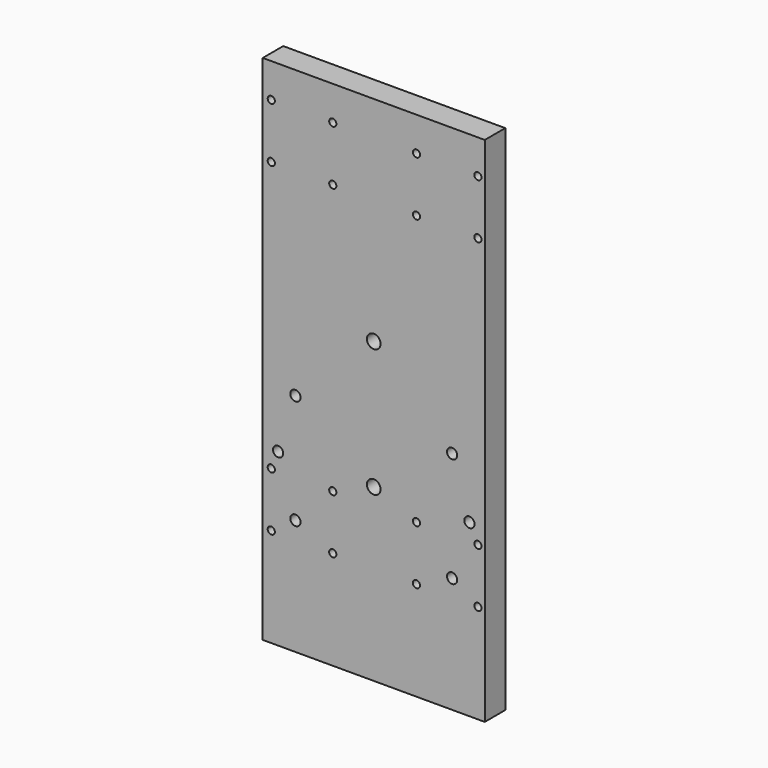
from build123d import *

# Parameters (mm, degrees)
SKETCH_W        = 130
SKETCH_H        = 300
PAD_DEPTH       = 15
SKETCH001_R     = 2.1
POCKET_DEPTH    = 15.001
SKETCH002_R     = 3
SKETCH002_R_2   = 4
POCKET001_DEPTH = 15.001


with BuildPart() as part:
    # Sketch → Pad (new body)
    with BuildSketch(Plane.XZ):
        with Locations((65, 150)):
            Rectangle(SKETCH_W, SKETCH_H)
    extrude(amount=PAD_DEPTH)

    # Sketch001 (on Face6 of Pad) → Pocket (cut, through all)
    with BuildSketch(Plane.XZ.offset(15)):
        with Locations((5, 280)):
            Circle(SKETCH001_R)
        with Locations((41, 280)):
            Circle(SKETCH001_R)
        with Locations((5, 248)):
            Circle(SKETCH001_R)
        with Locations((41, 248)):
            Circle(SKETCH001_R)
        with Locations((90, 280)):
            Circle(SKETCH001_R)
        with Locations((126, 280)):
            Circle(SKETCH001_R)
        with Locations((90, 248)):
            Circle(SKETCH001_R)
        with Locations((126, 248)):
            Circle(SKETCH001_R)
        with Locations((5, 90)):
            Circle(SKETCH001_R)
        with Locations((41, 90)):
            Circle(SKETCH001_R)
        with Locations((5, 58)):
            Circle(SKETCH001_R)
        with Locations((41, 58)):
            Circle(SKETCH001_R)
        with Locations((90, 90)):
            Circle(SKETCH001_R)
        with Locations((126, 90)):
            Circle(SKETCH001_R)
        with Locations((90, 58)):
            Circle(SKETCH001_R)
        with Locations((126, 58)):
            Circle(SKETCH001_R)
    extrude(amount=-POCKET_DEPTH, mode=Mode.SUBTRACT)

    # Sketch002 (on Face5 of Pocket) → Pocket001 (cut, through all)
    with BuildSketch(Plane.XZ.offset(15)):
        with Locations((9, 100)):
            Circle(SKETCH002_R)
        with Locations((121, 100)):
            Circle(SKETCH002_R)
        with Locations((65, 175)):
            Circle(SKETCH002_R_2)
        with Locations((65, 100)):
            Circle(SKETCH002_R_2)
        with Locations((19.127486, 132.12028)):
            Circle(SKETCH002_R)
        with Locations((110.872514, 67.87972)):
            Circle(SKETCH002_R)
        with Locations((19.127486, 67.87972)):
            Circle(SKETCH002_R)
        with Locations((110.872514, 132.12028)):
            Circle(SKETCH002_R)
    extrude(amount=-POCKET001_DEPTH, mode=Mode.SUBTRACT)


solid = part.part
